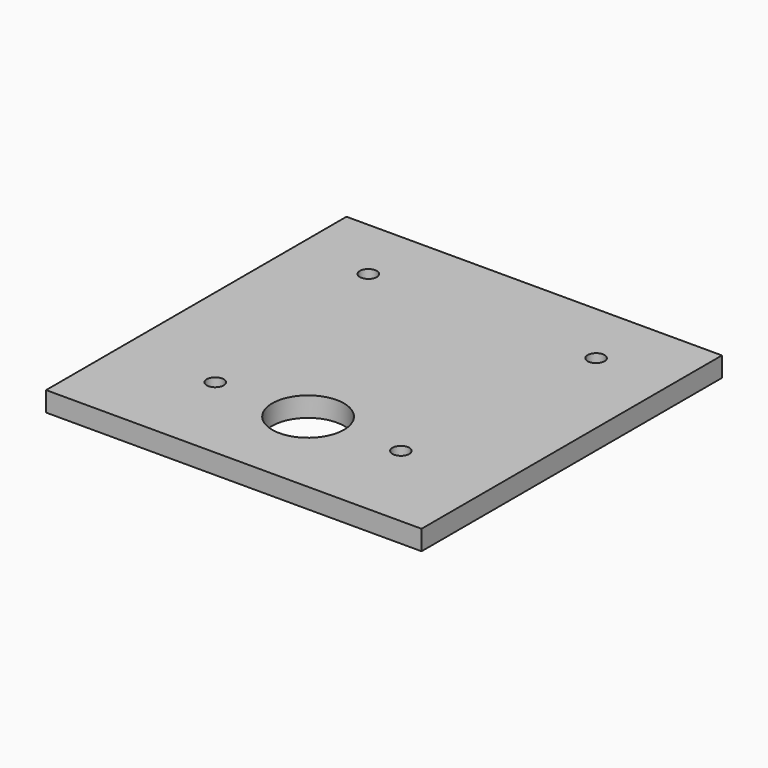
from build123d import *

# Parameters (mm, degrees)
SKETCH016_W     = 89
SKETCH016_H     = 89
SKETCH016_R     = 8.5
SKETCH016_R_2   = 2
PAD012_DEPTH    = 4.7
SKETCH021_R     = 2
POCKET003_DEPTH = 256.606458


with BuildPart() as part:
    # Sketch016 → Pad012 (new body)
    with BuildSketch(Plane.XY):
        Rectangle(SKETCH016_W, SKETCH016_H)
        with Locations((0, -22.5)):
            Circle(SKETCH016_R, mode=Mode.SUBTRACT)
        with Locations((-22, -22.5)):
            Circle(SKETCH016_R_2, mode=Mode.SUBTRACT)
        with Locations((22, -22.5)):
            Circle(SKETCH016_R_2, mode=Mode.SUBTRACT)
    extrude(amount=PAD012_DEPTH)

    # Sketch021 (on Face9 of Pad012) → Pocket003 (cut, through all)
    with BuildSketch(Plane.XY.offset(4.7)):
        with Locations((-27, 29.1)):
            Circle(SKETCH021_R)
    pocket003 = extrude(amount=-POCKET003_DEPTH, mode=Mode.SUBTRACT)

    # Mirrored002: Pocket003 across Sketch021 V_Axis
    add(pocket003.mirror(Plane(origin=(0, 0, 4.7), x_dir=(0, 0, 1), z_dir=(1, 0, 0))), mode=Mode.SUBTRACT)


with BuildPart() as part_1:
    # Body013 placement: moved
    add(part.part.moved(Location((0, 0, 99))))


with BuildPart() as part_2:
    # Clone006 placement: moved
    add(part_1.part.moved(Location((0, 0, -99))))


with BuildPart() as part_3:
    # Body019 placement: moved
    add(part_2.part.moved(Location((535, 6.5, 0))))


solid = part_3.part
